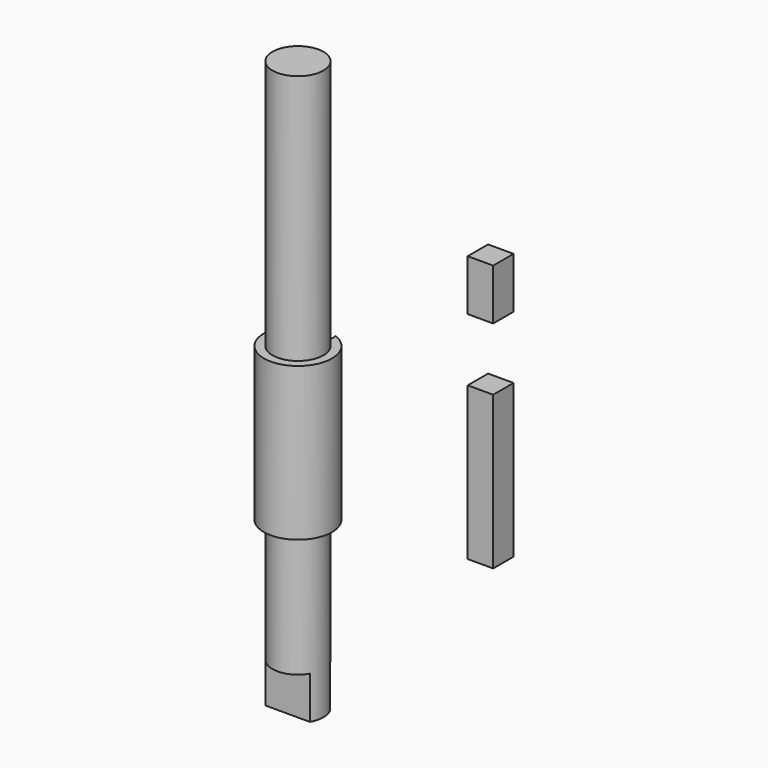
from build123d import *

# Parameters (mm, degrees)
F2_W     = 3
F2_H     = 3
F3_DEPTH = 18
F4_W     = 3
F4_H     = 6
F4_H_2   = 18
F5_DEPTH = 3
F6_W     = 10
F6_H     = 4
F7_DEPTH = 5


with BuildPart() as f1:
    # F0 (on Front) → F1 (revolve)
    with BuildSketch(Plane.XZ):
        Polygon((0, -11.201051), (0, 55.798949), (-3, 55.798949), (-3, 26.298949), (-4, 26.298949), (-4, 8.298949), (-3, 8.298949), (-3, -11.201051), align=None)
    revolve(axis=Axis((0, 0, 15.213801), (0, 0, -1)))

    # F2 (on face) → F3 (cut)
    with BuildSketch(Plane.XY.offset(26.298949)):
        with Locations((0, 4)):
            Rectangle(F2_W, F2_H)
    extrude(amount=-F3_DEPTH, mode=Mode.SUBTRACT)

    # F6 (on face) → F7 (cut)
    with BuildSketch(Plane(origin=(0, 0, -11.201051), x_dir=(1, 0, 0), z_dir=(0, 0, -1))):
        with Locations((0, -3.5)):
            Rectangle(F6_W, F6_H)
        with Locations((0, 3.5)):
            Rectangle(F6_W, F6_H)
    extrude(amount=-F7_DEPTH, mode=Mode.SUBTRACT)


with BuildPart() as f5:
    # F4 (on Front) → F5 (new body)
    with BuildSketch(Plane.XZ):
        with Locations((23.873695, 41.089317)):
            Rectangle(F4_W, F4_H)
        with Locations((23.873695, 21.711195)):
            Rectangle(F4_W, F4_H_2)
    extrude(amount=F5_DEPTH)


solid = Compound([f1.part, f5.part])
